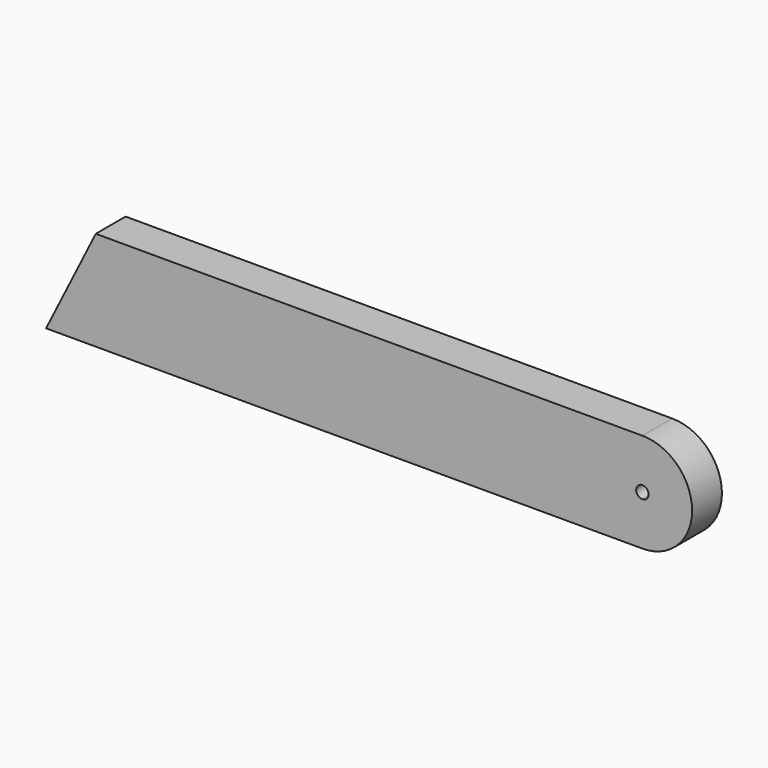
from build123d import *

# Parameters (mm, degrees)
F1_DEPTH = 9.525


with BuildPart() as f1:
    # F0 (on Front) → F1 (new body, symmetric)
    with BuildSketch(Plane.XZ):
        with BuildLine():
            ThreePointArc((139.7, -25.4), (157.6605122421, -17.9605122421), (165.1, 0))
            ThreePointArc((165.1, 0), (157.6605122421, 17.9605122421), (139.7, 25.4))
            Line((139.7, 25.4), (139.7, 3.175))
            ThreePointArc((139.7, 3.175), (141.9450640303, 2.2450640303), (142.875, 0))
            ThreePointArc((142.875, 0), (141.9450640303, -2.2450640303), (139.7, -3.175))
            Line((139.7, -3.175), (139.7, -25.4))
        make_face()
        with BuildLine():
            Line((139.7, 3.175), (139.7, 25.4))
            ThreePointArc((139.7, 25.4), (114.3, 0), (139.7, -25.4))
            Line((139.7, -25.4), (139.7, -3.175))
            ThreePointArc((139.7, -3.175), (136.525, 0), (139.7, 3.175))
        make_face()
        with BuildLine():
            ThreePointArc((139.7, -25.4), (114.3, 0), (139.7, 25.4))
            Line((139.7, 25.4), (-139.7, 25.4))
            Line((-139.7, 25.4), (-139.7, -25.4))
            Line((-139.7, -25.4), (139.7, -25.4))
        make_face()
        Polygon((-139.7, -25.4), (-139.7, 25.4), (-165.1, -25.4), align=None)
    extrude(amount=F1_DEPTH, both=True)


solid = f1.part
